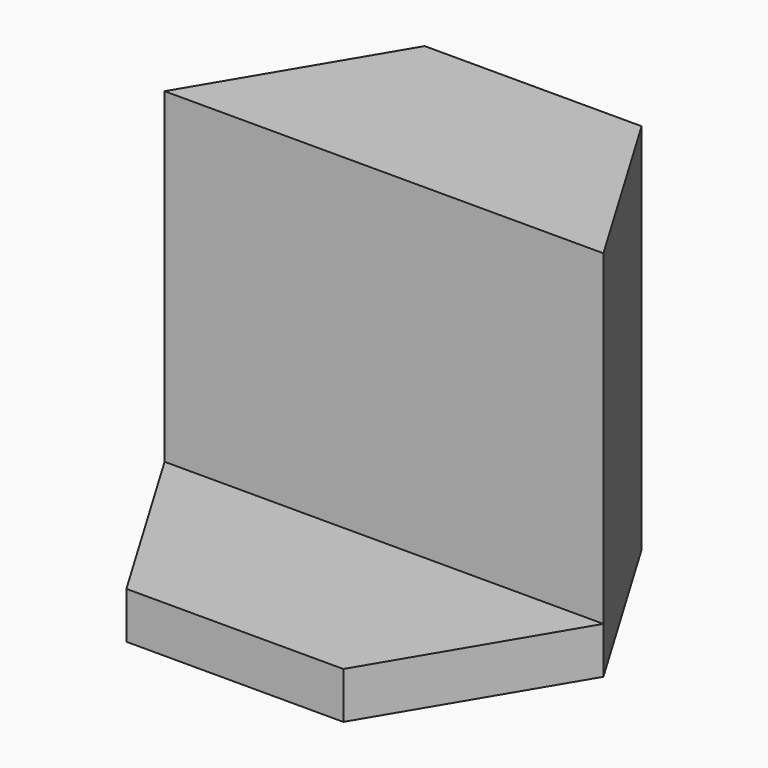
from build123d import *

# Parameters (mm, degrees)
F1_DEPTH = 3.175
F3_DEPTH = 22.225


with BuildPart() as f1:
    # F0 (on Top) → F1 (new body)
    with BuildSketch(Plane.XY):
        Polygon((7.557114, 12.7), (0, 0), (7.557114, -12.7), (22.335476, -12.7), (29.892591, 0), (22.335476, 12.7), align=None)
    extrude(amount=F1_DEPTH)

    # F2 (on face) → F3 (join)
    with BuildSketch(Plane.XY.offset(3.175)):
        Polygon((7.557114, 12.7), (0, 0), (29.892591, 0), (22.335476, 12.7), align=None)
    extrude(amount=F3_DEPTH)


solid = f1.part
